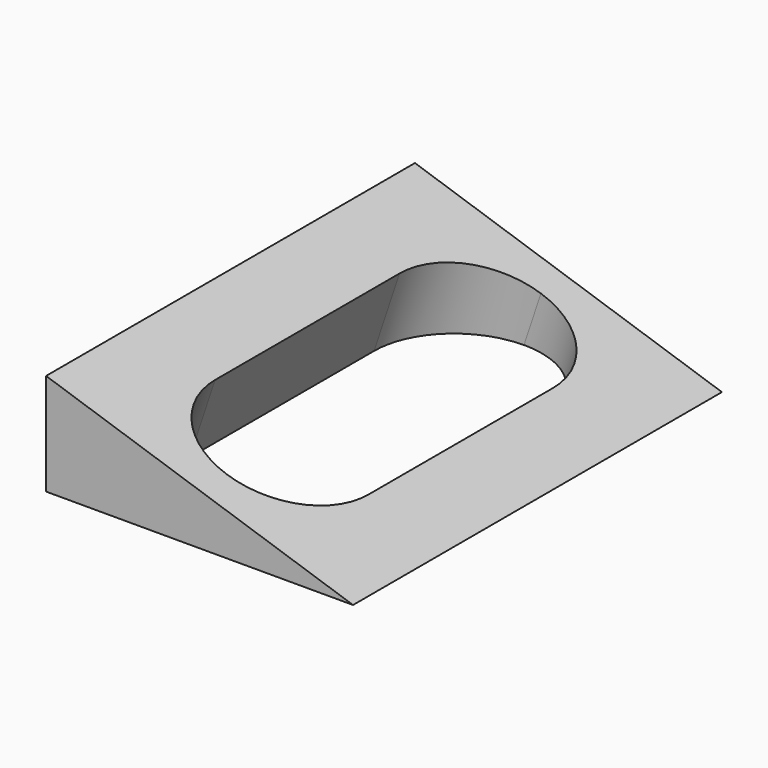
from build123d import *

# Parameters (mm, degrees)
F1_DEPTH = 100.076
F3_DEPTH = 48.26


with BuildPart() as f1:
    # F0 (on Front) → F1 (new body)
    with BuildSketch(Plane.XZ):
        Polygon((0, 22.108026), (0, 0), (66.624872, 0), align=None)
    extrude(amount=F1_DEPTH)

    # F2 (on face) → F3 (cut)
    with BuildSketch(Plane(origin=(6.608418, 0, 19.915165), x_dir=(0.949111, 0, -0.314942), z_dir=(0.314942, 0, 0.949111))):
        with BuildLine():
            ThreePointArc((28.135825, -7.469715), (15.726606, -12.609782), (10.58654, -25.019))
            Line((10.58654, -25.019), (10.58654, -75.057))
            ThreePointArc((10.58654, -75.057), (28.135825, -92.606285), (45.685109, -75.057))
            Line((45.685109, -75.057), (45.685109, -25.019))
            ThreePointArc((45.685109, -25.019), (40.545043, -12.609782), (28.135825, -7.469715))
        make_face()
    extrude(amount=-F3_DEPTH, mode=Mode.SUBTRACT)


solid = f1.part
